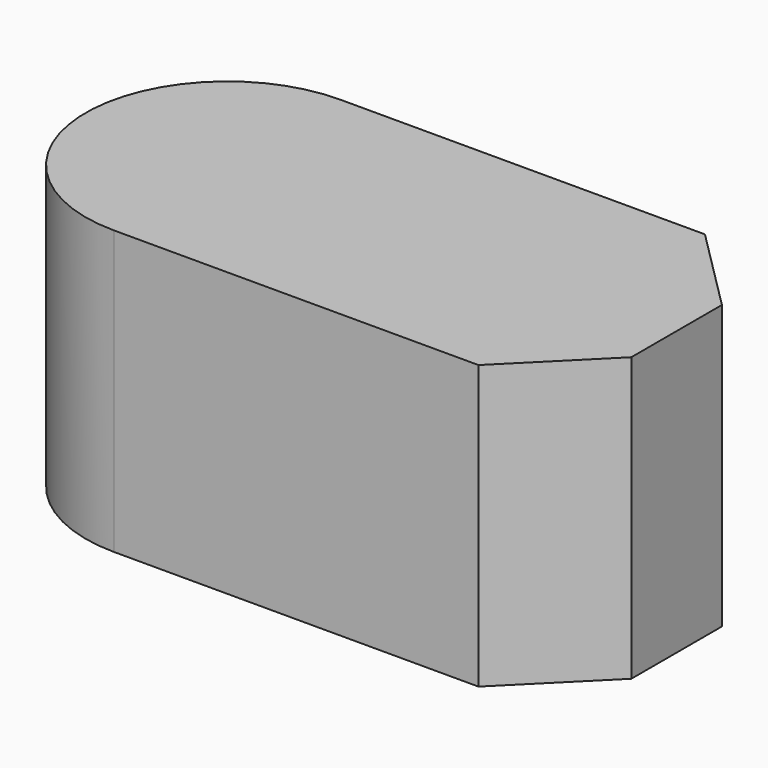
from build123d import *

# Parameters (mm, degrees)
F1_DEPTH = 30


with BuildPart() as f1:
    # F0 (on Top) → F1 (new body)
    with BuildSketch(Plane.XY):
        with BuildLine():
            ThreePointArc((0, 30), (-15, 15), (0, 0))
            Line((0, 0), (38.623673, 0))
            Line((38.623673, 0), (47.623673, 9))
            Line((47.623673, 9), (47.623673, 21))
            Line((47.623673, 21), (38.623673, 30))
            Line((38.623673, 30), (0, 30))
        make_face()
    extrude(amount=F1_DEPTH)


solid = f1.part
